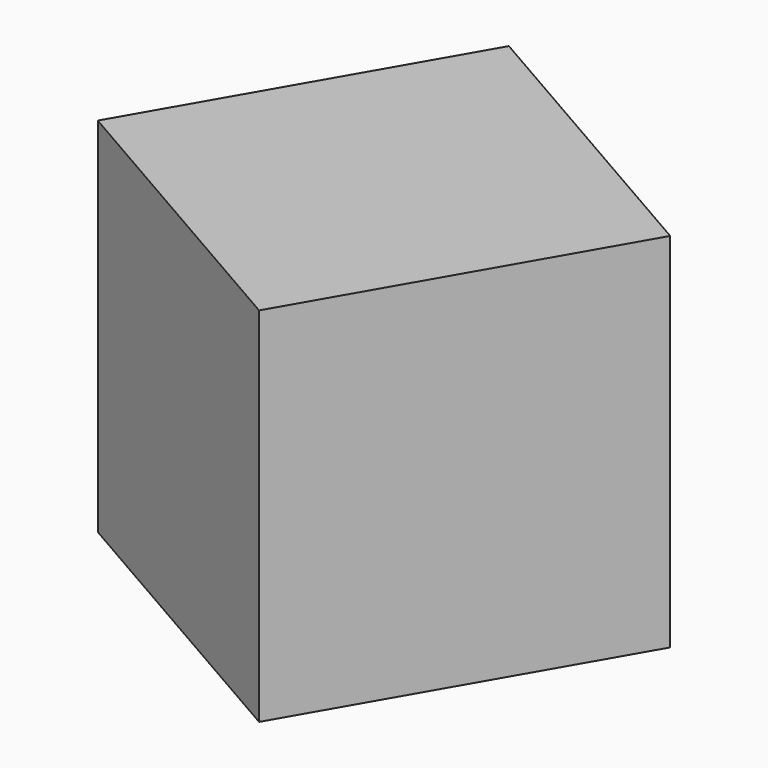
from build123d import *

# Parameters (mm, degrees)
F1_DEPTH = 100
F2_T     = -5


with BuildPart() as f1:
    # F0 (on Top) → F1 (new body)
    with BuildSketch(Plane.XY):
        Polygon((64.996796, 17.511724), (-17.511724, 64.996796), (-64.996796, -17.511724), (17.511724, -64.996796), align=None)
    extrude(amount=F1_DEPTH)

    # F2
    f2_openings = [f1.faces().sort_by_distance(p)[0] for p in [
        (23.742536, 41.25426, 50),
    ]]
    offset(amount=F2_T, openings=f2_openings)


solid = f1.part
